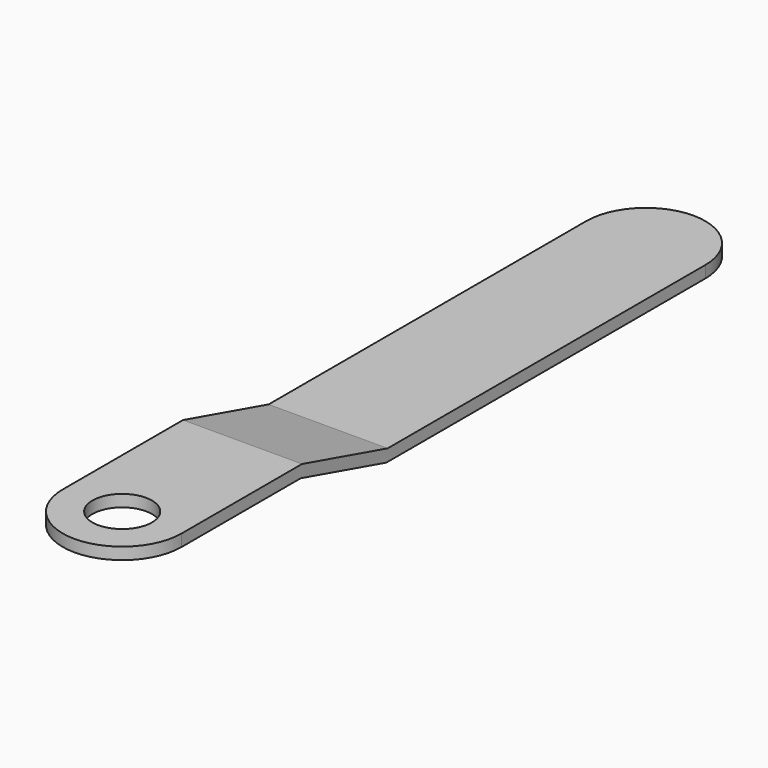
from build123d import *

# Parameters (mm, degrees)
F0_R     = 5
F1_DEPTH = 7
F3_DEPTH = 10


with BuildPart() as f1:
    # F0 (on Top) → F1 (new body)
    with BuildSketch(Plane.XY):
        with BuildLine():
            Line((-10, 110), (-10, 0))
            ThreePointArc((-10, 0), (0, -10), (10, 0))
            Line((10, 0), (10, 110))
            ThreePointArc((10, 110), (0, 120), (-10, 110))
        make_face()
        Circle(F0_R, mode=Mode.SUBTRACT)
    extrude(amount=F1_DEPTH)

    # F2 (on Right) → F3 (intersect, symmetric)
    with BuildSketch(Plane.YZ):
        Polygon((-10, 7), (-10, 5), (25, 5), (43, 0), (120, 0), (120, 2), (43.272617, 2), (25.272617, 7), align=None)
    extrude(amount=F3_DEPTH, both=True, mode=Mode.INTERSECT)


solid = f1.part
